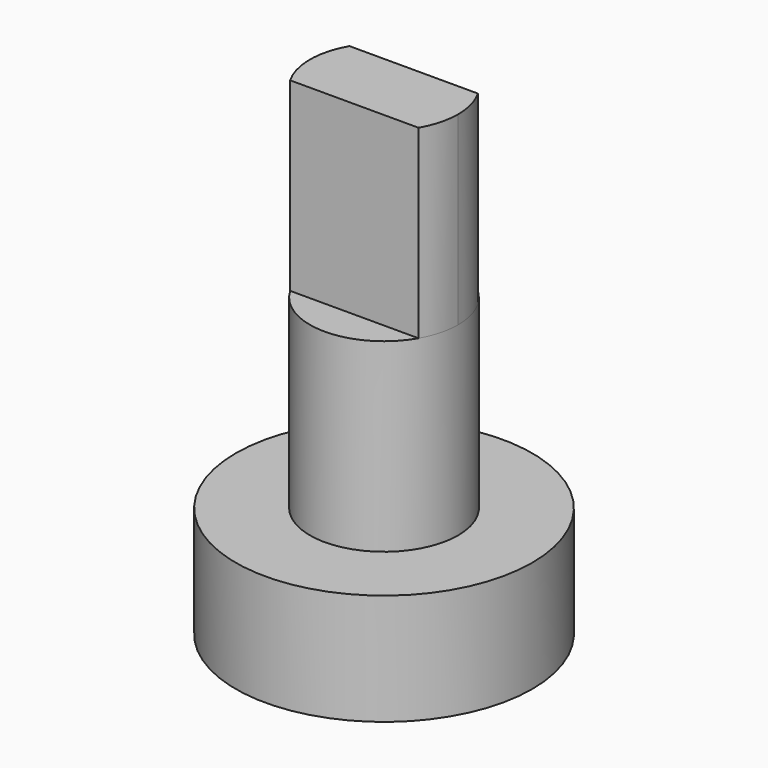
from build123d import *

# Parameters (mm, degrees)
F0_R     = 101.6
F1_DEPTH = 76.2
F2_R     = 50.8
F3_DEPTH = 127
F5_DEPTH = 127


with BuildPart() as f1:
    # F0 (on Top) → F1 (new body)
    with BuildSketch(Plane.XY):
        Circle(F0_R)
    extrude(amount=F1_DEPTH)

    # F2 (on face) → F3 (join)
    with BuildSketch(Plane.XY.offset(76.2)):
        Circle(F2_R)
    extrude(amount=F3_DEPTH)

    # F4 (on face) → F5 (join)
    with BuildSketch(Plane.XY.offset(203.2)):
        with BuildLine():
            Line((43.994091, 25.4), (-43.994091, 25.4))
            ThreePointArc((-43.994091, 25.4), (-50.8, 0), (-43.994091, -25.4))
            Line((-43.994091, -25.4), (43.994091, -25.4))
            ThreePointArc((43.994091, -25.4), (49.069032, -13.148007), (50.8, 0))
            ThreePointArc((50.8, 0), (49.069032, 13.148007), (43.994091, 25.4))
        make_face()
    extrude(amount=F5_DEPTH)


solid = f1.part
